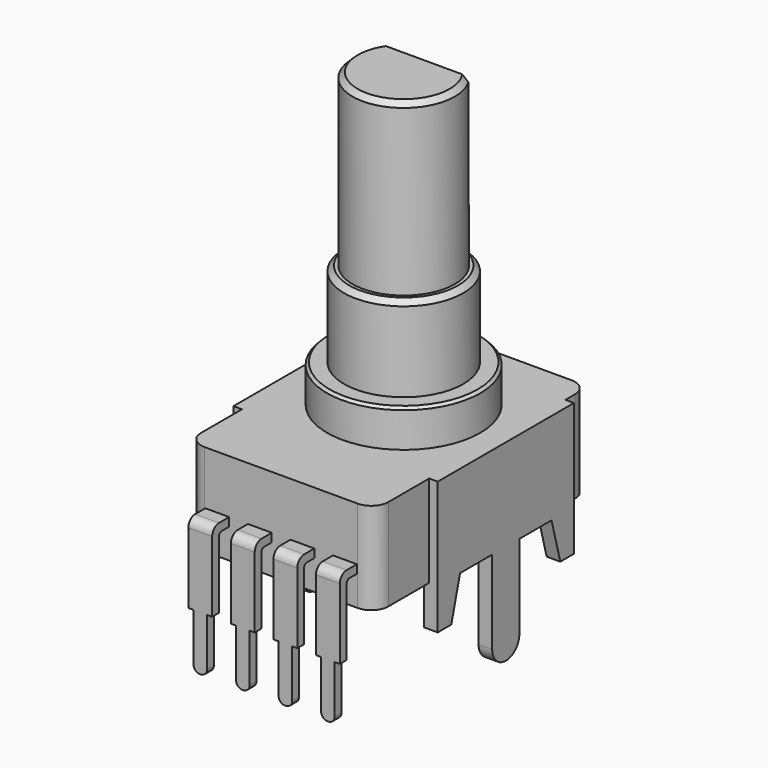
from build123d import *

# Parameters (mm, degrees)
PAD_DEPTH       = 5.4
FILLET_R        = 1
PAD001_DEPTH    = 0.8
PAD002_DEPTH    = 0.8
SKETCH003_R     = 4.5
PAD003_DEPTH    = 2.2
SKETCH004_R     = 3.5
PAD004_DEPTH    = 5
CHAMFER_SIZE    = 0.3
CHAMFER001_SIZE = 0.15
SKETCH005_R     = 3
PAD005_DEPTH    = 10
SKETCH006_W     = 6.98
SKETCH006_H     = 7
POCKET_DEPTH    = 5
CHAMFER002_SIZE = 0.2
CHAMFER003_SIZE = 0.3
PAD006_DEPTH    = 0.7
SKETCH009_W     = 0.5
SKETCH009_H     = 3.2
PAD007_DEPTH    = 0.4
FILLET001_R     = 0.5
FILLET002_R     = 0.2
FILLET003_R     = 0.38
PAD009_DEPTH    = 0.7
SKETCH011_W     = 0.5
SKETCH011_H     = 3.2
PAD008_DEPTH    = 0.4
FILLET006_R     = 0.5
FILLET004_R     = 0.2
FILLET005_R     = 0.38
PAD010_DEPTH    = 0.7
SKETCH012_W     = 0.5
SKETCH012_H     = 3.2
PAD011_DEPTH    = 0.4
FILLET009_R     = 0.5
FILLET007_R     = 0.2
FILLET008_R     = 0.38
PAD013_DEPTH    = 0.7
SKETCH014_W     = 0.5
SKETCH014_H     = 3.2
PAD012_DEPTH    = 0.4
FILLET010_R     = 0.5
FILLET012_R     = 0.2
FILLET011_R     = 0.38


with BuildPart() as obj1:
    # Sketch → Pad (new body)
    with BuildSketch(Plane.XY):
        Polygon((-5.5, 6.7), (5.5, 6.7), (5.5, 5), (6, 5), (6, -5), (5.5, -5), (5.5, -9), (-5.5, -9), (-5.5, -5), (-6, -5), (-6, 5), (-5.5, 5), align=None)
    extrude(amount=PAD_DEPTH)

    # Fillet
    fillet_edges = [obj1.edges().sort_by_distance(p)[0] for p in [
        (5.5, 6.7, 2.7),
        (-5.5, 6.7, 2.7),
        (-5.5, -9, 2.7),
        (5.5, -9, 2.7),
    ]]
    fillet(fillet_edges, radius=FILLET_R)

    # Sketch001 (on Face10 of Fillet) → Pad001 (join)
    with BuildSketch(Plane(origin=(-6, 0, 0), x_dir=(0, -1, 0), z_dir=(-1, 0, 0))):
        Polygon((-5, 0), (-5, -2.4), (-4, -2.4), (-3.356922, 0), align=None)
        Polygon((5, 0), (5, -2.4), (4, -2.4), (3.356922, 0), align=None)
    pad001 = extrude(amount=-PAD001_DEPTH)

    # Sketch002 (on Face10 of Pad001) → Pad002 (join)
    with BuildSketch(Plane(origin=(-6, 0, 0), x_dir=(0, -1, 0), z_dir=(-1, 0, 0))):
        with BuildLine():
            Line((-1, 5.4), (-1, -4.900013))
            ThreePointArc((-1, -4.900013), (7e-06, -5.900004), (1, -4.9))
            Line((1, 5.4), (1, -4.9))
            Line((-1, 5.4), (1, 5.4))
        make_face()
    pad002 = extrude(amount=-PAD002_DEPTH)

    # Mirrored: Pad001, Pad002 across YZ
    add(pad001.mirror(Plane.YZ))
    add(pad002.mirror(Plane.YZ))

    # Sketch003 (on Face5 of Mirrored) → Pad003 (join)
    with BuildSketch(Plane.XY.offset(5.4)):
        Circle(SKETCH003_R)
    extrude(amount=PAD003_DEPTH)

    # Sketch004 (on Face56 of Pad003) → Pad004 (join)
    with BuildSketch(Plane.XY.offset(7.6)):
        Circle(SKETCH004_R)
    extrude(amount=PAD004_DEPTH)

    # Chamfer
    chamfer_edges = [obj1.edges().sort_by_distance(p)[0] for p in [
        (-3.5, 0, 12.6),
    ]]
    chamfer(chamfer_edges, length=CHAMFER_SIZE)

    # Chamfer001
    chamfer001_edges = [obj1.edges().sort_by_distance(p)[0] for p in [
        (-4.5, 0, 7.6),
    ]]
    chamfer(chamfer001_edges, length=CHAMFER001_SIZE)

    # Sketch005 (on Face7 of Chamfer001) → Pad005 (join)
    with BuildSketch(Plane.XY.offset(12.6)):
        Circle(SKETCH005_R)
    extrude(amount=PAD005_DEPTH)

    # Sketch006 (on DatumPlane) → Pocket (cut)
    with BuildSketch(Plane.XZ.offset(-1.5)):
        with Locations((0, 19.1)):
            Rectangle(SKETCH006_W, SKETCH006_H)
    extrude(amount=-POCKET_DEPTH, mode=Mode.SUBTRACT)

    # Chamfer002
    chamfer002_edges = [obj1.edges().sort_by_distance(p)[0] for p in [
        (-5.2, 4.178461, 0),
    ]]
    chamfer(chamfer002_edges, length=CHAMFER002_SIZE)

    # Chamfer003
    chamfer003_edges = [obj1.edges().sort_by_distance(p)[0] for p in [
        (-0.776457, -2.897777, 22.6),
    ]]
    chamfer(chamfer003_edges, length=CHAMFER003_SIZE)


with BuildPart() as obj2:
    # Sketch007 (on DatumPlane) → Pad006 (new body, symmetric)
    with BuildSketch(Plane.YZ.offset(1.25)):
        Polygon((-9, 2.25), (-10.25, 2.25), (-10.25, -2.4), (-9.75, -2.4), (-9.75, 1.75), (-9, 1.75), align=None)
    extrude(amount=PAD006_DEPTH, both=True)

    # Sketch009 (on DatumPlane) → Pad007 (join, symmetric)
    with BuildSketch(Plane.YZ.offset(1.25)):
        with Locations((-10, -4)):
            Rectangle(SKETCH009_W, SKETCH009_H)
    extrude(amount=PAD007_DEPTH, both=True)

    # Fillet001
    fillet001_edges = [obj2.edges().sort_by_distance(p)[0] for p in [
        (1.25, -10.25, 2.25),
    ]]
    fillet(fillet001_edges, radius=FILLET001_R)

    # Fillet002
    fillet002_edges = [obj2.edges().sort_by_distance(p)[0] for p in [
        (1.25, -9.75, 1.75),
    ]]
    fillet(fillet002_edges, radius=FILLET002_R)

    # Fillet003
    fillet003_edges = [obj2.edges().sort_by_distance(p)[0] for p in [
        (0.85, -10, -5.6),
        (1.65, -10, -5.6),
    ]]
    fillet(fillet003_edges, radius=FILLET003_R)


with BuildPart() as obj3:
    # Sketch010 (on DatumPlane) → Pad009 (new body, symmetric)
    with BuildSketch(Plane.YZ.offset(-1.25)):
        Polygon((-9, 2.25), (-10.25, 2.25), (-10.25, -2.4), (-9.75, -2.4), (-9.75, 1.75), (-9, 1.75), align=None)
    extrude(amount=PAD009_DEPTH, both=True)

    # Sketch011 (on DatumPlane) → Pad008 (join, symmetric)
    with BuildSketch(Plane.YZ.offset(-1.25)):
        with Locations((-10, -4)):
            Rectangle(SKETCH011_W, SKETCH011_H)
    extrude(amount=PAD008_DEPTH, both=True)

    # Fillet006
    fillet006_edges = [obj3.edges().sort_by_distance(p)[0] for p in [
        (-1.25, -10.25, 2.25),
    ]]
    fillet(fillet006_edges, radius=FILLET006_R)

    # Fillet004
    fillet004_edges = [obj3.edges().sort_by_distance(p)[0] for p in [
        (-1.25, -9.75, 1.75),
    ]]
    fillet(fillet004_edges, radius=FILLET004_R)

    # Fillet005
    fillet005_edges = [obj3.edges().sort_by_distance(p)[0] for p in [
        (-1.65, -10, -5.6),
        (-0.85, -10, -5.6),
    ]]
    fillet(fillet005_edges, radius=FILLET005_R)


with BuildPart() as obj4:
    # Sketch013 (on DatumPlane) → Pad010 (new body, symmetric)
    with BuildSketch(Plane.YZ.offset(-3.75)):
        Polygon((-9, 2.25), (-10.25, 2.25), (-10.25, -2.4), (-9.75, -2.4), (-9.75, 1.75), (-9, 1.75), align=None)
    extrude(amount=PAD010_DEPTH, both=True)

    # Sketch012 (on DatumPlane) → Pad011 (join, symmetric)
    with BuildSketch(Plane.YZ.offset(-3.75)):
        with Locations((-10, -4)):
            Rectangle(SKETCH012_W, SKETCH012_H)
    extrude(amount=PAD011_DEPTH, both=True)

    # Fillet009
    fillet009_edges = [obj4.edges().sort_by_distance(p)[0] for p in [
        (-3.75, -10.25, 2.25),
    ]]
    fillet(fillet009_edges, radius=FILLET009_R)

    # Fillet007
    fillet007_edges = [obj4.edges().sort_by_distance(p)[0] for p in [
        (-3.75, -9.75, 1.75),
    ]]
    fillet(fillet007_edges, radius=FILLET007_R)

    # Fillet008
    fillet008_edges = [obj4.edges().sort_by_distance(p)[0] for p in [
        (-4.15, -10, -5.6),
        (-3.35, -10, -5.6),
    ]]
    fillet(fillet008_edges, radius=FILLET008_R)


with BuildPart() as obj5:
    # Sketch015 (on DatumPlane) → Pad013 (new body, symmetric)
    with BuildSketch(Plane.YZ.offset(3.75)):
        Polygon((-9, 2.25), (-10.25, 2.25), (-10.25, -2.4), (-9.75, -2.4), (-9.75, 1.75), (-9, 1.75), align=None)
    extrude(amount=PAD013_DEPTH, both=True)

    # Sketch014 (on DatumPlane) → Pad012 (join, symmetric)
    with BuildSketch(Plane.YZ.offset(3.75)):
        with Locations((-10, -4)):
            Rectangle(SKETCH014_W, SKETCH014_H)
    extrude(amount=PAD012_DEPTH, both=True)

    # Fillet010
    fillet010_edges = [obj5.edges().sort_by_distance(p)[0] for p in [
        (3.75, -10.25, 2.25),
    ]]
    fillet(fillet010_edges, radius=FILLET010_R)

    # Fillet012
    fillet012_edges = [obj5.edges().sort_by_distance(p)[0] for p in [
        (3.75, -9.75, 1.75),
    ]]
    fillet(fillet012_edges, radius=FILLET012_R)

    # Fillet011
    fillet011_edges = [obj5.edges().sort_by_distance(p)[0] for p in [
        (3.35, -10, -5.6),
        (4.15, -10, -5.6),
    ]]
    fillet(fillet011_edges, radius=FILLET011_R)


solid = Compound([obj1.part, obj2.part, obj3.part, obj4.part, obj5.part])
